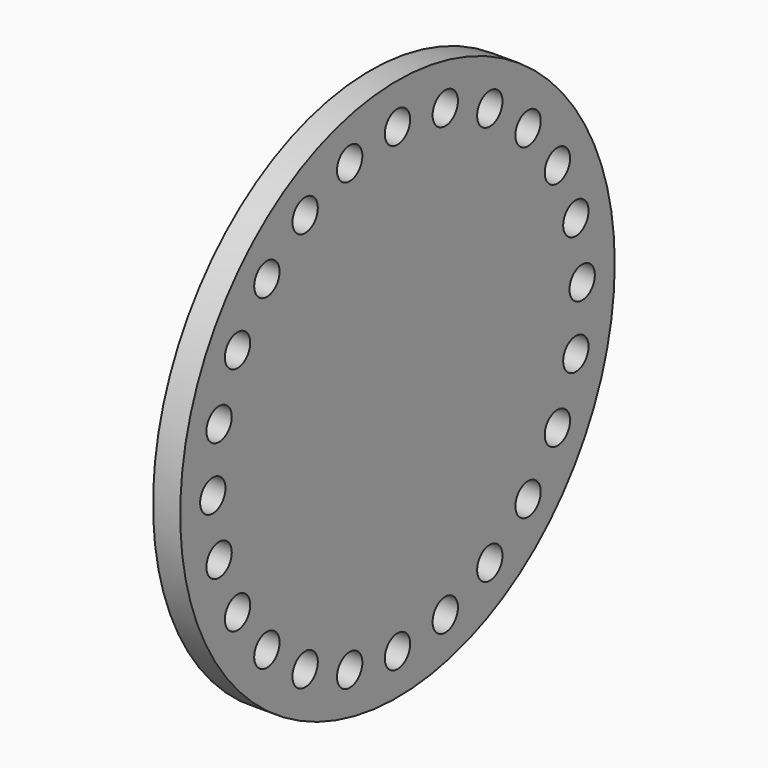
from build123d import *

# Parameters (mm, degrees)
F0_R     = 30
F0_R_2   = 1.75
F1_DEPTH = 3


with BuildPart() as f1:
    # F0 (on Right) → F1 (new body)
    with BuildSketch(Plane.YZ):
        Circle(F0_R)
        with Locations((-18.031223, -18.031223)):
            Circle(F0_R_2, mode=Mode.SUBTRACT)
        with Locations((-6.599886, -24.631109)):
            Circle(F0_R_2, mode=Mode.SUBTRACT)
        with Locations((-12.75, -22.083648)):
            Circle(F0_R_2, mode=Mode.SUBTRACT)
        with Locations((-22.083648, -12.75)):
            Circle(F0_R_2, mode=Mode.SUBTRACT)
        with Locations((-24.631109, -6.599886)):
            Circle(F0_R_2, mode=Mode.SUBTRACT)
        with Locations((0, -25.5)):
            Circle(F0_R_2, mode=Mode.SUBTRACT)
        with Locations((6.599886, -24.631109)):
            Circle(F0_R_2, mode=Mode.SUBTRACT)
        with Locations((12.75, -22.083648)):
            Circle(F0_R_2, mode=Mode.SUBTRACT)
        with Locations((18.031223, -18.031223)):
            Circle(F0_R_2, mode=Mode.SUBTRACT)
        with Locations((22.083648, -12.75)):
            Circle(F0_R_2, mode=Mode.SUBTRACT)
        with Locations((24.631109, -6.599886)):
            Circle(F0_R_2, mode=Mode.SUBTRACT)
        with Locations((-25.5, 0)):
            Circle(F0_R_2, mode=Mode.SUBTRACT)
        with Locations((-24.631109, 6.599886)):
            Circle(F0_R_2, mode=Mode.SUBTRACT)
        with Locations((-22.083648, 12.75)):
            Circle(F0_R_2, mode=Mode.SUBTRACT)
        with Locations((-18.031223, 18.031223)):
            Circle(F0_R_2, mode=Mode.SUBTRACT)
        with Locations((-12.75, 22.083648)):
            Circle(F0_R_2, mode=Mode.SUBTRACT)
        with Locations((-6.599886, 24.631109)):
            Circle(F0_R_2, mode=Mode.SUBTRACT)
        with Locations((25.5, 0)):
            Circle(F0_R_2, mode=Mode.SUBTRACT)
        with Locations((24.631109, 6.599886)):
            Circle(F0_R_2, mode=Mode.SUBTRACT)
        with Locations((22.083648, 12.75)):
            Circle(F0_R_2, mode=Mode.SUBTRACT)
        with Locations((12.75, 22.083648)):
            Circle(F0_R_2, mode=Mode.SUBTRACT)
        with Locations((0, 25.5)):
            Circle(F0_R_2, mode=Mode.SUBTRACT)
        with Locations((6.599886, 24.631109)):
            Circle(F0_R_2, mode=Mode.SUBTRACT)
        with Locations((18.031223, 18.031223)):
            Circle(F0_R_2, mode=Mode.SUBTRACT)
    extrude(amount=F1_DEPTH)


solid = f1.part
